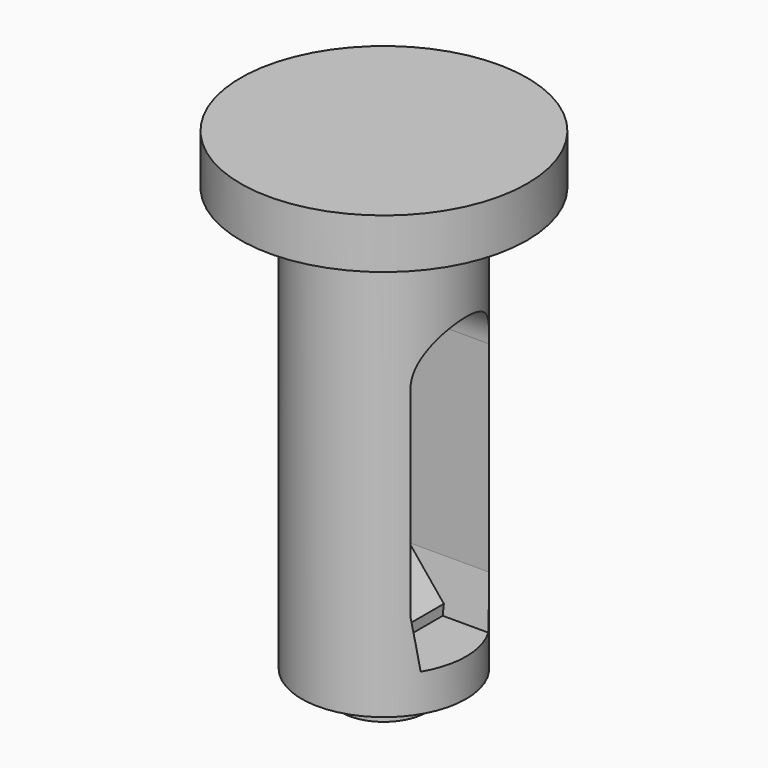
from build123d import *

# Parameters (mm, degrees)
SKETCH006_W      = 5.741076
SKETCH006_H      = 2
EXTRUDE004_DEPTH = 1
CHAMFER_SIZE     = 1.6
EXTRUDE003_DEPTH = 7.5
SKETCH001_R      = 3.3
EXTRUDE001_DEPTH = 17
SKETCH002_R      = 5.75
EXTRUDE002_DEPTH = 2
SKETCH_R         = 1.7
EXTRUDE_DEPTH    = 1


with BuildPart() as chamfer_body:
    # Sketch006 → Extrude004 (new body, symmetric)
    with BuildSketch(Plane.YZ):
        with Locations((0, 3.5)):
            Rectangle(SKETCH006_W, SKETCH006_H)
    extrude(amount=EXTRUDE004_DEPTH, both=True)

    # Chamfer
    chamfer_edges = [chamfer_body.edges().sort_by_distance(p)[0] for p in [
        (1, 0, 4.5),
    ]]
    chamfer(chamfer_edges, length=CHAMFER_SIZE)


with BuildPart() as hole_e:
    # Sketch003 → Extrude003 (new body, symmetric)
    with BuildSketch(Plane.YZ):
        with BuildLine():
            Line((-1.975, 8.5), (-1.975, 4.487526))
            Line((-1.975, 4.487526), (-1.695672, 2.5))
            Line((-1.695672, 2.5), (0.001755, 2.5))
            Line((0.001755, 2.5), (1.699181, 2.5))
            Line((1.975, 4.462553), (1.699181, 2.5))
            Line((1.975, 8.5), (1.975, 4.462553))
            Line((1.975, 12.525), (1.975, 8.5))
            ThreePointArc((1.975, 12.525), (0, 14.5), (-1.975, 12.525))
            Line((-1.975, 12.525), (-1.975, 8.5))
        make_face()
    extrude(amount=EXTRUDE003_DEPTH, both=True)


with BuildPart() as slice2_e:
    # Sketch001 → Extrude001 (new body)
    with BuildSketch(Plane.XY.offset(1)):
        Circle(SKETCH001_R)
    extrude(amount=EXTRUDE001_DEPTH)


with BuildPart() as slice3_e:
    # Sketch002 → Extrude002 (new body)
    with BuildSketch(Plane.XY.offset(18)):
        Circle(SKETCH002_R)
    extrude(amount=EXTRUDE002_DEPTH)


with BuildPart() as everything:
    # Sketch → Extrude (new body)
    with BuildSketch(Plane.XY):
        Circle(SKETCH_R)
    extrude(amount=EXTRUDE_DEPTH)

    # Fusion: union slice2_e, slice3_e
    add(slice2_e.part)
    add(slice3_e.part)

    # Cut: cut hole_e
    add(hole_e.part, mode=Mode.SUBTRACT)

    # Fusion001: union Chamfer body
    add(chamfer_body.part)


solid = everything.part
